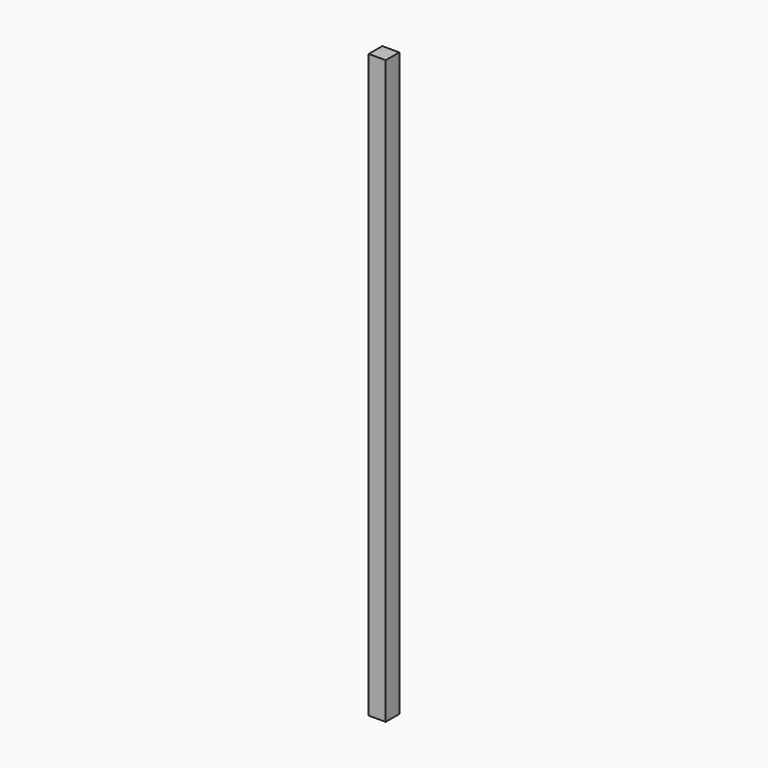
from build123d import *

# Parameters (mm, degrees)
F0_W     = 88.9
F0_H     = 88.9
F1_DEPTH = 3048
F2_W     = 38.1
F2_H     = 184.15
F3_DEPTH = 2362.2
F4_W     = 38.1
F4_H     = 184.15
F5_DEPTH = 1200.15
F6_W     = 38.1
F6_H     = 88.9
F7_DEPTH = 1123.95
F8_W     = 38.1
F8_H     = 88.9
F9_DEPTH = 1320.8


with BuildPart() as f1:
    # F0 (on Top) → F1 (new body)
    with BuildSketch(Plane.XY):
        with Locations((44.45, 44.45)):
            Rectangle(F0_W, F0_H)
    extrude(amount=F1_DEPTH)


with BuildPart() as f3:
    # F2 (on Front) → F3 (new body)
    with BuildSketch(Plane.XZ):
        with Locations((-146.594351, 92.075)):
            Rectangle(F2_W, F2_H)
    extrude(amount=F3_DEPTH)


with BuildPart() as f5:
    # F4 (on Right) → F5 (new body)
    with BuildSketch(Plane.YZ):
        with Locations((249.086387, 92.075)):
            Rectangle(F4_W, F4_H)
    extrude(amount=F5_DEPTH)


with BuildPart() as f7:
    # F6 (on Front) → F7 (new body)
    with BuildSketch(Plane.XZ):
        with Locations((-334.724839, 44.45)):
            Rectangle(F6_W, F6_H)
    extrude(amount=F7_DEPTH)


with BuildPart() as f9:
    # F8 (on Top) → F9 (new body)
    with BuildSketch(Plane.XY):
        with Locations((54.404456, -162.528336)):
            Rectangle(F8_W, F8_H)
    extrude(amount=F9_DEPTH)


solid = f1.part
